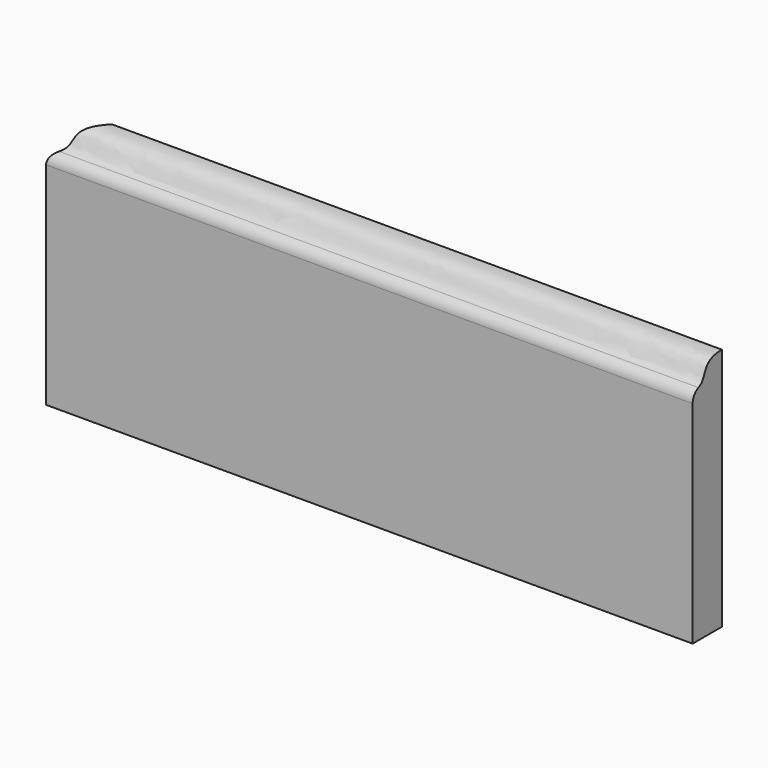
from build123d import *

# Parameters (mm, degrees)
F0_W     = 336.55
F0_H     = 127
F1_DEPTH = 19.05
F3_DEPTH = 336.551
F5_DEPTH = 127.0010001


with BuildPart() as f1:
    # F0 (on Front) → F1 (new body)
    with BuildSketch(Plane.XZ):
        Rectangle(F0_W, F0_H)
    extrude(amount=F1_DEPTH)

    # F2 (on face) → F3 (cut, through all)
    with BuildSketch(Plane.YZ.offset(168.275)):
        with BuildLine():
            add(Edge.make_bspline(
                [(0, 63.5), (-13.8609133718, 63.5), (-9.1129885479, 55.0204556119), (-15.256598862, 52.3182653746)],
                knots=[0, 0, 0, 0, 19.4568359991, 19.4568359991, 19.4568359991, 19.4568359991], degree=3))
            Line((0, 63.5), (-19.05, 63.5))
            Line((-19.05, 63.5), (-19.05, 51.528967917))
            add(Edge.make_bspline(
                [(-15.256598862, 52.3182653746), (-16.2172018341, 51.8957561593), (-17.4440793365, 51.6144907855), (-19.05, 51.528967917)],
                knots=[19.4568359991, 19.4568359991, 19.4568359991, 19.4568359991, 22.4990690726, 22.4990690726, 22.4990690726, 22.4990690726], degree=3))
        make_face()
        with BuildLine():
            ThreePointArc((-19.05, 46.505666794), (-18.0177487141, 49.976120455), (-15.256598862, 52.3182653746))
            add(Edge.make_bspline(
                [(-15.256598862, 52.3182653746), (-16.2172018341, 51.8957561593), (-17.4440793365, 51.6144907855), (-19.05, 51.528967917)],
                knots=[19.4568359991, 19.4568359991, 19.4568359991, 19.4568359991, 22.4990690726, 22.4990690726, 22.4990690726, 22.4990690726], degree=3))
            Line((-19.05, 51.528967917), (-19.05, 46.505666794))
        make_face()
    extrude(amount=-F3_DEPTH, mode=Mode.SUBTRACT)

    # F4 (on face) → F5 (cut, through all)
    with BuildSketch(Plane(origin=(0, 0, -63.5), x_dir=(1, 0, 0), z_dir=(0, 0, -1))):
        Polygon((-149.225, 0), (-168.275, 19.05), (-168.275, 0), align=None)
    extrude(amount=-F5_DEPTH, mode=Mode.SUBTRACT)


solid = f1.part
